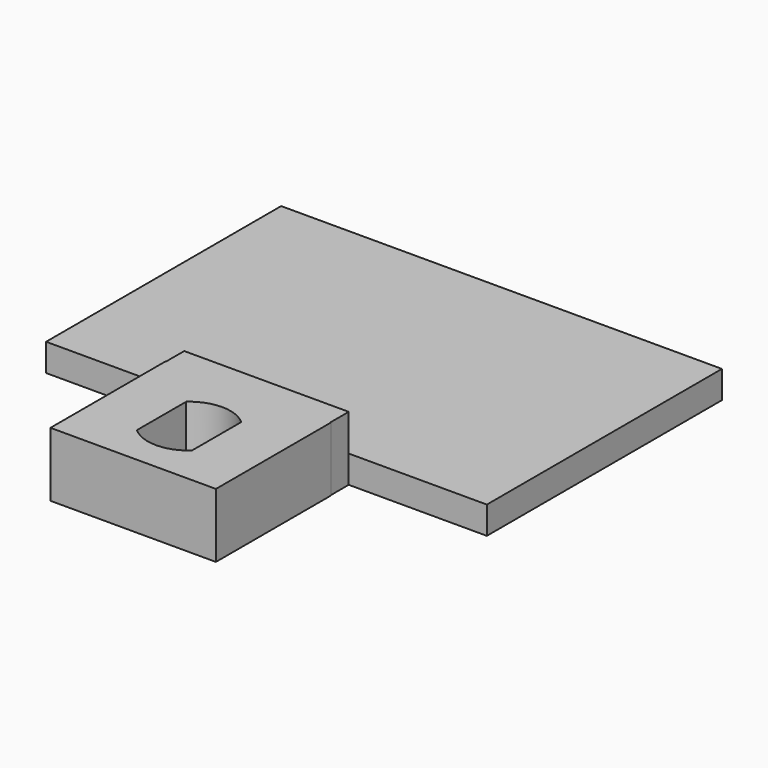
from build123d import *

# Parameters (mm, degrees)
F1_DEPTH = 7
F2_DEPTH = 3
F3_W     = 48
F3_H     = 3
F4_DEPTH = 27


with BuildPart() as f1:
    # F0 (on Top) → F1 (new body)
    with BuildSketch(Plane.XY):
        Polygon((0.000171, 8.035728), (-6.356564, 8.035728), (-8.956735, 8.035728), (-9.009132, 8.035728), (-9.009132, -7.608017), (9.009474, -7.608017), (9.009474, 8.035728), (8.956735, 8.035728), (6.356564, 8.035728), align=None)
        with BuildLine():
            Line((3.00302, 3.351398), (2.996931, -3.356845))
            ThreePointArc((2.996931, -3.356845), (-0.004116, -4.499998), (-3.003067, -3.351357))
            Line((-3.003067, -3.351357), (-2.996977, 3.356803))
            ThreePointArc((-2.996977, 3.356803), (0.004054, 4.499998), (3.00302, 3.351398))
        make_face(mode=Mode.SUBTRACT)
        Polygon((-8.956735, 8.035728), (-6.356564, 8.035728), (0.000171, 8.035728), (6.356564, 8.035728), (8.956735, 8.035728), (8.956735, 10.535728), (0, 10.535728), (-8.956735, 10.535728), align=None)
    extrude(amount=F1_DEPTH)

    # F0 (on Top) → F2 (join)
    with BuildSketch(Plane.XY):
        Polygon((-24, 10.535728), (-8.956735, 10.535728), (0, 10.535728), (8.956735, 10.535728), (24, 10.535728), (24, 15.535728), (0, 15.535728), (-24, 15.535728), align=None)
    extrude(amount=F2_DEPTH)

    # F3 (on face) → F4 (join)
    with BuildSketch(Plane(origin=(0, 15.535728, 0), x_dir=(-1, 0, 0), z_dir=(0, 1, 0))):
        with Locations((0, 1.5)):
            Rectangle(F3_W, F3_H)
    extrude(amount=F4_DEPTH)


solid = f1.part
